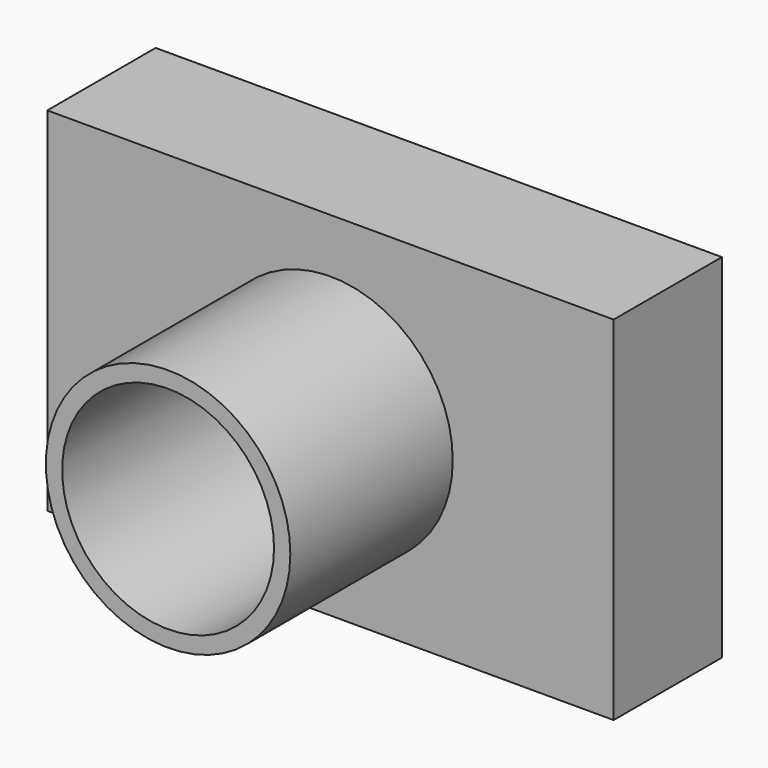
from build123d import *

# Parameters (mm, degrees)
F0_W      = 127.534748
F0_H      = 79.408422
F1_DEPTH  = 15.24
F2_R      = 27.530043
F2_R_2    = 23.859261
F3_DEPTH  = 45.72
F3_FACE_R = 23.859261
F4_DEPTH  = 46.99


with BuildPart() as f1:
    # F0 (on Front) → F1 (new body, symmetric)
    with BuildSketch(Plane.XZ):
        Rectangle(F0_W, F0_H)
    extrude(amount=F1_DEPTH, both=True)

    # F2 (on face) → F3 (join)
    with BuildSketch(Plane.XZ.offset(15.24)):
        Circle(F2_R)
        Circle(F2_R_2, mode=Mode.SUBTRACT)
    extrude(amount=F3_DEPTH)

    # F3_face (on face) → F4 (cut)
    with BuildSketch(Plane.XZ.offset(15.24)):
        Circle(F3_FACE_R)
    extrude(amount=-F4_DEPTH, mode=Mode.SUBTRACT)


solid = f1.part
